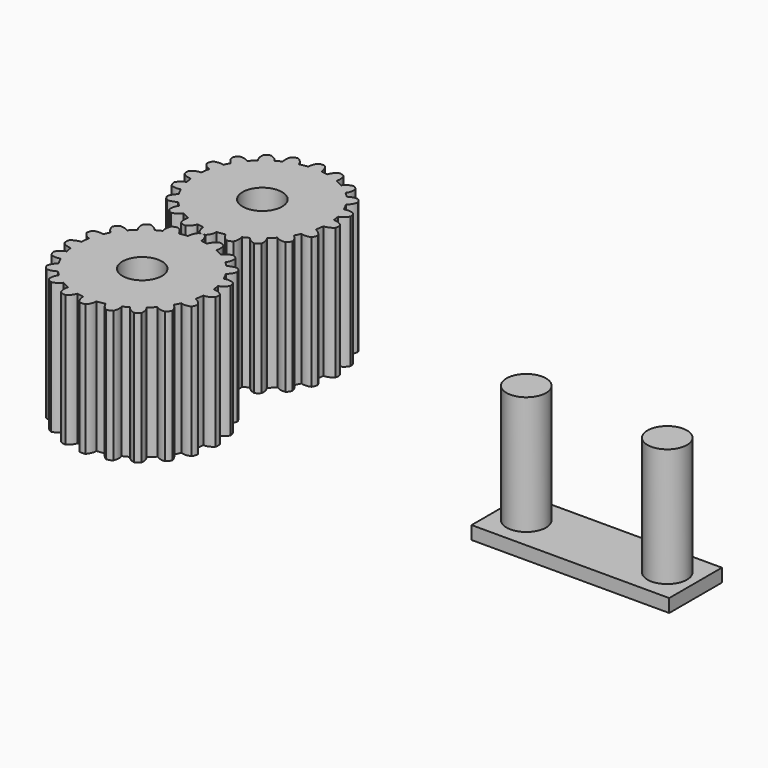
from build123d import *

# Parameters (mm, degrees)
F0_R     = 5
F0_R_2   = 1.5
F2_DEPTH = 10
F3_DEPTH = 10
F5_W     = 15
F5_H     = 5
F6_DEPTH = 1
F7_R     = 1.5
F8_DEPTH = 10


with BuildPart() as f2:
    # F0 (on Top) → F2 (new body)
    with BuildSketch(Plane.XY):
        Circle(F0_R)
        Circle(F0_R_2, mode=Mode.SUBTRACT)
    extrude(amount=F2_DEPTH)

    # F1 (on Top) → F3 (join)
    with BuildSketch(Plane.XY):
        with BuildLine():
            ThreePointArc((-0.2261657907, 5.6624568175), (-0.4290225484, 5.3449602992), (-0.5, 4.9749371855))
            ThreePointArc((-0.5, 4.9749371855), (0, 5), (0.5, 4.9749371855))
            ThreePointArc((0.5, 4.9749371855), (0.4290225484, 5.3449602992), (0.2261657907, 5.6624568175))
            ThreePointArc((0.2261657907, 5.6624568175), (0, 5.7), (-0.2261657907, 5.6624568175))
        make_face()
        with BuildLine():
            ThreePointArc((1.458106356, 5.4745561894), (1.1716081792, 5.2315612472), (0.9949874371, 4.9))
            ThreePointArc((0.9949874371, 4.9), (1.48, 4.7759396981), (1.9501753767, 4.604))
            ThreePointArc((1.9501753767, 4.604), (1.9918197706, 4.9795317478), (1.8911580262, 5.3437096745))
            ThreePointArc((1.8911580262, 5.3437096745), (1.6854937755, 5.4450806016), (1.458106356, 5.4745561894))
        make_face()
        with BuildLine():
            ThreePointArc((4.3974962125, 3.5719555815), (4.0228854753, 3.5437679469), (3.685109482, 3.3793443307))
            ThreePointArc((3.685109482, 3.3793443307), (4.0045720721, 2.9938942065), (4.2838883233, 2.5784299163))
            ThreePointArc((4.2838883233, 2.5784299163), (4.5383113688, 2.8577635216), (4.6709327215, 3.2115571422))
            ThreePointArc((4.6709327215, 3.2115571422), (4.5641311835, 3.4144543583), (4.3974962125, 3.5719555815))
        make_face()
        with BuildLine():
            ThreePointArc((3.1453366409, 4.7139607117), (2.7946023054, 4.5763368431), (2.5196862116, 4.3187013552))
            ThreePointArc((2.5196862116, 4.3187013552), (2.9389262615, 4.0450849719), (3.3287032059, 3.7309161029))
            ThreePointArc((3.3287032059, 3.7309161029), (3.4887753705, 4.0719905895), (3.5112805773, 4.448086879))
            ThreePointArc((3.5112805773, 4.448086879), (3.3503759381, 4.6113968679), (3.1453366409, 4.7139607117))
        make_face()
        with BuildLine():
            ThreePointArc((5.6571919813, 0.3049893479), (5.3375572527, 0.5023757391), (4.9676449571, 0.5678939867))
            ThreePointArc((4.9676449571, 0.5678939867), (4.999533723, 0.0682828867), (4.9813015344, -0.4320127579))
            ThreePointArc((4.9813015344, -0.4320127579), (5.3513222757, -0.355573238), (5.6665698763, -0.1473010617))
            ThreePointArc((5.6665698763, -0.1473010617), (5.6994256085, 0.0796226032), (5.6571919813, 0.3049893479))
        make_face()
        with BuildLine():
            ThreePointArc((5.3154273817, 1.9648918356), (4.9507840635, 2.059708257), (4.5769379313, 2.0128683944))
            ThreePointArc((4.5769379313, 2.0128683944), (4.7552825815, 1.5450849719), (4.8859549256, 1.0618118781))
            ThreePointArc((4.8859549256, 1.0618118781), (5.2159345803, 1.2436588765), (5.4552055274, 1.5346989375))
            ThreePointArc((5.4552055274, 1.5346989375), (5.4210221429, 1.7613968679), (5.3154273817, 1.9648918356))
        make_face()
        with BuildLine():
            ThreePointArc((4.7560326941, -3.0784724505), (4.6134635764, -2.7309069259), (4.3527089026, -2.4604725581))
            ThreePointArc((4.3527089026, -2.4604725581), (4.0848434196, -2.8834101749), (3.7760268676, -3.2774412421))
            ThreePointArc((3.7760268676, -3.2774412421), (4.120309958, -3.4330931062), (4.497769938, -3.4498952666))
            ThreePointArc((4.497769938, -3.4498952666), (4.6577331673, -3.28562228), (4.7560326941, -3.0784724505))
        make_face()
        with BuildLine():
            ThreePointArc((5.4552055274, -1.5346989375), (5.2159345803, -1.2436588765), (4.8859549256, -1.0618118781))
            ThreePointArc((4.8859549256, -1.0618118781), (4.7552825815, -1.5450849719), (4.5769379313, -2.0128683944))
            ThreePointArc((4.5769379313, -2.0128683944), (4.9507840635, -2.059708257), (5.3154273817, -1.9648918356))
            ThreePointArc((5.3154273817, -1.9648918356), (5.4210221429, -1.7613968679), (5.4552055274, -1.5346989375))
        make_face()
        with BuildLine():
            ThreePointArc((2.0382305694, -5.2860624062), (2.1271836198, -4.9210759653), (2.0751859904, -4.5490222142))
            ThreePointArc((2.0751859904, -4.5490222142), (1.6098817687, -4.7337385533), (1.1284382798, -4.8709985679))
            ThreePointArc((1.1284382798, -4.8709985679), (1.3154792805, -5.1992880944), (1.610974757, -5.4347467372))
            ThreePointArc((1.610974757, -5.4347467372), (1.8369449668, -5.3958711265), (2.0382305694, -5.2860624062))
        make_face()
        with BuildLine():
            ThreePointArc((3.5112805773, -4.448086879), (3.4887753705, -4.0719905895), (3.3287032059, -3.7309161029))
            ThreePointArc((3.3287032059, -3.7309161029), (2.9389262615, -4.0450849719), (2.5196862116, -4.3187013552))
            ThreePointArc((2.5196862116, -4.3187013552), (2.7946023054, -4.5763368431), (3.1453366409, -4.7139607117))
            ThreePointArc((3.1453366409, -4.7139607117), (3.3503759381, -4.6113968679), (3.5112805773, -4.448086879))
        make_face()
        with BuildLine():
            ThreePointArc((-1.458106356, -5.4745561894), (-1.1716081792, -5.2315612472), (-0.9949874371, -4.9))
            ThreePointArc((-0.9949874371, -4.9), (-1.48, -4.7759396981), (-1.9501753767, -4.604))
            ThreePointArc((-1.9501753767, -4.604), (-1.9918197706, -4.9795317478), (-1.8911580262, -5.3437096745))
            ThreePointArc((-1.8911580262, -5.3437096745), (-1.6854937755, -5.4450806016), (-1.458106356, -5.4745561894))
        make_face()
        with BuildLine():
            ThreePointArc((0.2261657907, -5.6624568175), (0.4290225484, -5.3449602992), (0.5, -4.9749371855))
            ThreePointArc((0.5, -4.9749371855), (0, -5), (-0.5, -4.9749371855))
            ThreePointArc((-0.5, -4.9749371855), (-0.4290225484, -5.3449602992), (-0.2261657907, -5.6624568175))
            ThreePointArc((-0.2261657907, -5.6624568175), (0, -5.7), (0.2261657907, -5.6624568175))
        make_face()
        with BuildLine():
            ThreePointArc((-4.3974962125, -3.5719555815), (-4.0228854753, -3.5437679469), (-3.685109482, -3.3793443307))
            ThreePointArc((-3.685109482, -3.3793443307), (-4.0045720721, -2.9938942065), (-4.2838883233, -2.5784299163))
            ThreePointArc((-4.2838883233, -2.5784299163), (-4.5383113688, -2.8577635216), (-4.6709327215, -3.2115571422))
            ThreePointArc((-4.6709327215, -3.2115571422), (-4.5641311835, -3.4144543583), (-4.3974962125, -3.5719555815))
        make_face()
        with BuildLine():
            ThreePointArc((-3.1453366409, -4.7139607117), (-2.7946023054, -4.5763368431), (-2.5196862116, -4.3187013552))
            ThreePointArc((-2.5196862116, -4.3187013552), (-2.9389262615, -4.0450849719), (-3.3287032059, -3.7309161029))
            ThreePointArc((-3.3287032059, -3.7309161029), (-3.4887753705, -4.0719905895), (-3.5112805773, -4.448086879))
            ThreePointArc((-3.5112805773, -4.448086879), (-3.3503759381, -4.6113968679), (-3.1453366409, -4.7139607117))
        make_face()
        with BuildLine():
            ThreePointArc((-5.6571919813, -0.3049893479), (-5.3375572527, -0.5023757391), (-4.9676449571, -0.5678939867))
            ThreePointArc((-4.9676449571, -0.5678939867), (-4.999533723, -0.0682828867), (-4.9813015344, 0.4320127579))
            ThreePointArc((-4.9813015344, 0.4320127579), (-5.3513222757, 0.355573238), (-5.6665698763, 0.1473010617))
            ThreePointArc((-5.6665698763, 0.1473010617), (-5.6994256085, -0.0796226032), (-5.6571919813, -0.3049893479))
        make_face()
        with BuildLine():
            ThreePointArc((-5.3154273817, -1.9648918356), (-4.9507840635, -2.059708257), (-4.5769379313, -2.0128683944))
            ThreePointArc((-4.5769379313, -2.0128683944), (-4.7552825815, -1.5450849719), (-4.8859549256, -1.0618118781))
            ThreePointArc((-4.8859549256, -1.0618118781), (-5.2159345803, -1.2436588765), (-5.4552055274, -1.5346989375))
            ThreePointArc((-5.4552055274, -1.5346989375), (-5.4210221429, -1.7613968679), (-5.3154273817, -1.9648918356))
        make_face()
        with BuildLine():
            ThreePointArc((-4.7560326941, 3.0784724505), (-4.6134635764, 2.7309069259), (-4.3527089026, 2.4604725581))
            ThreePointArc((-4.3527089026, 2.4604725581), (-4.0848434196, 2.8834101749), (-3.7760268676, 3.2774412421))
            ThreePointArc((-3.7760268676, 3.2774412421), (-4.120309958, 3.4330931062), (-4.497769938, 3.4498952666))
            ThreePointArc((-4.497769938, 3.4498952666), (-4.6577331673, 3.28562228), (-4.7560326941, 3.0784724505))
        make_face()
        with BuildLine():
            ThreePointArc((-5.4552055274, 1.5346989375), (-5.2159345803, 1.2436588765), (-4.8859549256, 1.0618118781))
            ThreePointArc((-4.8859549256, 1.0618118781), (-4.7552825815, 1.5450849719), (-4.5769379313, 2.0128683944))
            ThreePointArc((-4.5769379313, 2.0128683944), (-4.9507840635, 2.059708257), (-5.3154273817, 1.9648918356))
            ThreePointArc((-5.3154273817, 1.9648918356), (-5.4210221429, 1.7613968679), (-5.4552055274, 1.5346989375))
        make_face()
        with BuildLine():
            ThreePointArc((-2.0382305694, 5.2860624062), (-2.1271836198, 4.9210759653), (-2.0751859904, 4.5490222142))
            ThreePointArc((-2.0751859904, 4.5490222142), (-1.6098817687, 4.7337385533), (-1.1284382798, 4.8709985679))
            ThreePointArc((-1.1284382798, 4.8709985679), (-1.3154792805, 5.1992880944), (-1.610974757, 5.4347467372))
            ThreePointArc((-1.610974757, 5.4347467372), (-1.8369449668, 5.3958711265), (-2.0382305694, 5.2860624062))
        make_face()
        with BuildLine():
            ThreePointArc((-3.5112805773, 4.448086879), (-3.4887753705, 4.0719905895), (-3.3287032059, 3.7309161029))
            ThreePointArc((-3.3287032059, 3.7309161029), (-2.9389262615, 4.0450849719), (-2.5196862116, 4.3187013552))
            ThreePointArc((-2.5196862116, 4.3187013552), (-2.7946023054, 4.5763368431), (-3.1453366409, 4.7139607117))
            ThreePointArc((-3.1453366409, 4.7139607117), (-3.3503759381, 4.6113968679), (-3.5112805773, 4.448086879))
        make_face()
    extrude(amount=F3_DEPTH)


with BuildPart() as f4_1:
    # F4: copy of F2
    add(f2.part.moved(Location((0, 11.4, 0))))


with BuildPart() as f6:
    # F5 (on Top) → F6 (new body)
    with BuildSketch(Plane.XY):
        with Locations((32.5, 2.5)):
            Rectangle(F5_W, F5_H)
    extrude(amount=F6_DEPTH)

    # F7 (on Top) → F8 (join)
    with BuildSketch(Plane.XY):
        with Locations((27.15, 2.5)):
            Circle(F7_R)
        with Locations((37.85, 2.5)):
            Circle(F7_R)
    extrude(amount=F8_DEPTH)


solid = Compound([f2.part, f4_1.part, f6.part])
